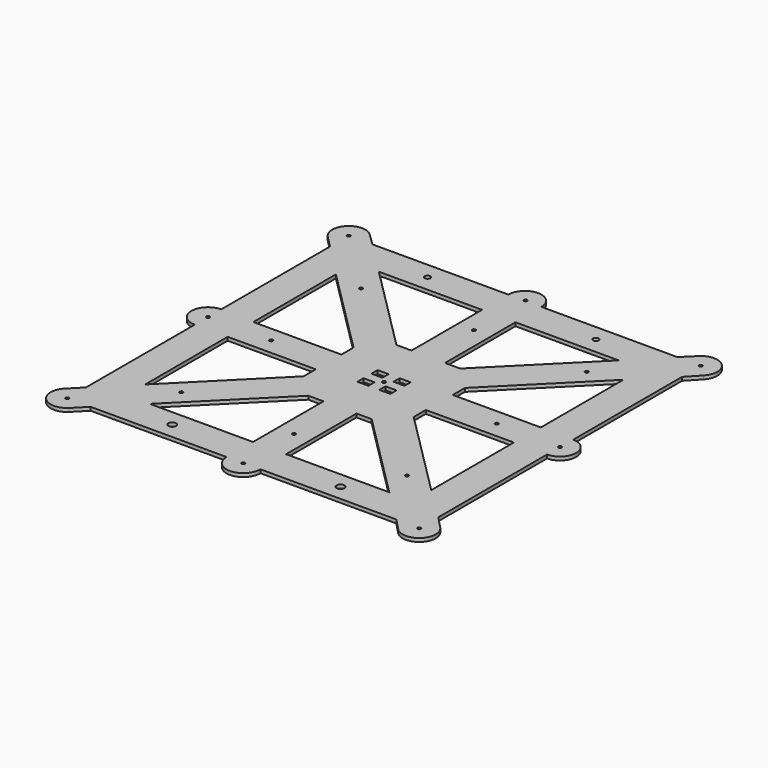
from build123d import *

# Parameters (mm, degrees)
F0_R     = 1.5
F0_R_2   = 3.5
F0_W     = 10
F0_H     = 7
F0_R_3   = 2.5
F1_DEPTH = 3.175


with BuildPart() as f1:
    # F0 (on Top) → F1 (new body)
    with BuildSketch(Plane.XY):
        with BuildLine():
            Line((-170.709795, 149.497605), (-160.021436, 138.6452))
            Line((-160.021436, 138.6452), (-160.021436, 15.045131))
            ThreePointArc((-160.021436, 15.045131), (-175.04201, -0.012286), (-159.996863, -15.045151))
            Line((-159.996863, -15.045151), (-159.996863, -138.64522))
            Line((-159.996863, -138.64522), (-170.709795, -149.497605))
            ThreePointArc((-170.709795, -149.497605), (-170.62604, -170.587128), (-149.536967, -170.748253))
            Line((-149.536967, -170.748253), (-138.843533, -159.876655))
            Line((-138.843533, -159.876655), (-15.243465, -159.876655))
            ThreePointArc((-15.243465, -159.876655), (0.163697, -175.119241), (15.239949, -159.549279))
            Line((15.239949, -159.549279), (138.840017, -159.549279))
            Line((138.840017, -159.549279), (149.536967, -170.748253))
            ThreePointArc((149.536967, -170.748253), (170.62604, -170.587128), (170.709795, -149.497605))
            Line((170.709795, -149.497605), (160.003137, -138.307913))
            Line((160.003137, -138.307913), (160.003137, -14.707844))
            ThreePointArc((160.003137, -14.707844), (174.71038, -0.133012), (160.269149, 14.705439))
            Line((160.269149, 14.705439), (160.269149, 138.305507))
            Line((160.269149, 138.305507), (170.709795, 149.497605))
            ThreePointArc((170.709795, 149.497605), (170.62604, 170.587128), (149.536967, 170.748253))
            Line((149.536967, 170.748253), (138.622064, 160.018153))
            Line((138.622064, 160.018153), (15.021996, 160.018153))
            ThreePointArc((15.021996, 160.018153), (0.052596, 175.145617), (-15.022364, 160.123345))
            Line((-15.022364, 160.123345), (-138.622432, 160.123345))
            Line((-138.622432, 160.123345), (-149.536967, 170.748253))
            ThreePointArc((-149.536967, 170.748253), (-170.62604, 170.587128), (-170.709795, 149.497605))
        make_face()
        with Locations((-160, -160)):
            Circle(F0_R, mode=Mode.SUBTRACT)
        with Locations((-102.589366, -102.108729)):
            Circle(F0_R, mode=Mode.SUBTRACT)
        with Locations((-76.5, -145)):
            Circle(F0_R_2, mode=Mode.SUBTRACT)
        Polygon((-15.040643, -130.069532), (-108.810426, -130.028952), (-28.798405, -50.016931), (-15.000023, -50.016931), align=None, mode=Mode.SUBTRACT)
        Polygon((-50.026811, -28.803403), (-130.038832, -108.815424), (-130.079413, -15.045641), (-50.026811, -15.005021), align=None, mode=Mode.SUBTRACT)
        with Locations((-159.996863, 0)):
            Circle(F0_R, mode=Mode.SUBTRACT)
        with Locations((-102.589366, 0)):
            Circle(F0_R, mode=Mode.SUBTRACT)
        with Locations((-10, -8)):
            Rectangle(F0_W, F0_H, mode=Mode.SUBTRACT)
        with Locations((0, -159.876655)):
            Circle(F0_R, mode=Mode.SUBTRACT)
        with Locations((76.5, -145)):
            Circle(F0_R_2, mode=Mode.SUBTRACT)
        with Locations((0, -102.108729)):
            Circle(F0_R, mode=Mode.SUBTRACT)
        Polygon((28.809005, -50.016034), (108.821026, -130.028055), (15.051243, -130.068635), (15.010623, -50.016034), align=None, mode=Mode.SUBTRACT)
        with Locations((160, -160)):
            Circle(F0_R, mode=Mode.SUBTRACT)
        with Locations((102.589366, -102.108729)):
            Circle(F0_R, mode=Mode.SUBTRACT)
        with Locations((10, -8)):
            Rectangle(F0_W, F0_H, mode=Mode.SUBTRACT)
        Circle(F0_R, mode=Mode.SUBTRACT)
        Polygon((130.052601, -15.029035), (130.012021, -108.798818), (50, -28.786797), (50, -14.988415), align=None, mode=Mode.SUBTRACT)
        with Locations((102.589366, 0)):
            Circle(F0_R, mode=Mode.SUBTRACT)
        with Locations((159.996863, 0)):
            Circle(F0_R, mode=Mode.SUBTRACT)
        Polygon((-130.021436, 14.063299), (-130.021436, 107.833091), (-49.968824, 27.861681), (-49.968824, 14.063299), align=None, mode=Mode.SUBTRACT)
        with Locations((-10, 8)):
            Rectangle(F0_W, F0_H, mode=Mode.SUBTRACT)
        with Locations((-102.589366, 102.108729)):
            Circle(F0_R, mode=Mode.SUBTRACT)
        with Locations((-160, 160)):
            Circle(F0_R, mode=Mode.SUBTRACT)
        Polygon((-28.785476, 50.070734), (-108.756886, 130.123345), (-14.987094, 130.123345), (-14.987094, 50.070734), align=None, mode=Mode.SUBTRACT)
        with Locations((-76.5, 145.108729)):
            Circle(F0_R_3, mode=Mode.SUBTRACT)
        with Locations((10, 8)):
            Rectangle(F0_W, F0_H, mode=Mode.SUBTRACT)
        Polygon((50.521991, 28.76451), (130.493401, 108.817121), (130.574562, 15.047365), (50.521991, 14.966128), align=None, mode=Mode.SUBTRACT)
        with Locations((0, 102.108729)):
            Circle(F0_R, mode=Mode.SUBTRACT)
        Polygon((15.498815, 130.018728), (109.268607, 130.018728), (29.297197, 49.966116), (15.498815, 49.966116), align=None, mode=Mode.SUBTRACT)
        with Locations((0, 160.723508)):
            Circle(F0_R, mode=Mode.SUBTRACT)
        with Locations((76.5, 145.108729)):
            Circle(F0_R_3, mode=Mode.SUBTRACT)
        with Locations((102.589366, 102.108729)):
            Circle(F0_R, mode=Mode.SUBTRACT)
        with Locations((160, 160)):
            Circle(F0_R, mode=Mode.SUBTRACT)
    extrude(amount=F1_DEPTH)


solid = f1.part
